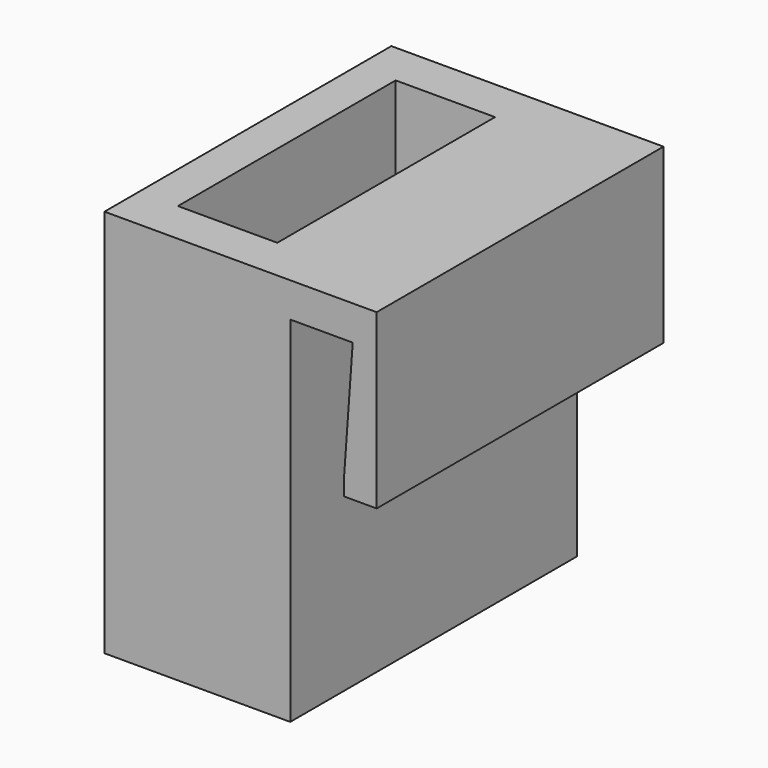
from build123d import *

# Parameters (mm, degrees)
BOX001_W      = 6
BOX001_H      = 17
BOX001_DEPTH  = 5
BOX_W         = 11.5
BOX_H         = 31.5
BOX_DEPTH     = 40
EXTRUDE_DEPTH = 41.5


with BuildPart() as cube001:
    # Box001 → Box001 (new body)
    with BuildSketch(Plane(origin=(-33.030017, -29.25, 15.266888), x_dir=(1, 0, 0), z_dir=(0, 0, 1))):
        with Locations((3, 8.5)):
            Rectangle(BOX001_W, BOX001_H)
    extrude(amount=BOX001_DEPTH)


with BuildPart() as cube:
    # Box → Box (new body)
    with BuildSketch(Plane(origin=(-36.280017, -36.5, 20.266888), x_dir=(1, 0, 0), z_dir=(0, 0, 1))):
        with Locations((5.75, 15.75)):
            Rectangle(BOX_W, BOX_H)
    extrude(amount=BOX_DEPTH)


with BuildPart() as cut001:
    # Sketch → Extrude (new body)
    with BuildSketch(Plane.XZ):
        Polygon((-13.050017, 40.266888), (-9.280017, 40.266888), (-9.280017, 60.266888), (-20.280017, 60.266888), (-40.780017, 60.266888), (-40.780017, 15.266888), (-19.280017, 15.266888), (-19.280017, 56.266888), (-12.050017, 56.266888), (-13.050017, 42.266888), align=None)
    extrude(amount=EXTRUDE_DEPTH)

    # Cut: cut Cube
    add(cube.part, mode=Mode.SUBTRACT)

    # Cut001: cut Cube001
    add(cube001.part, mode=Mode.SUBTRACT)


solid = cut001.part
